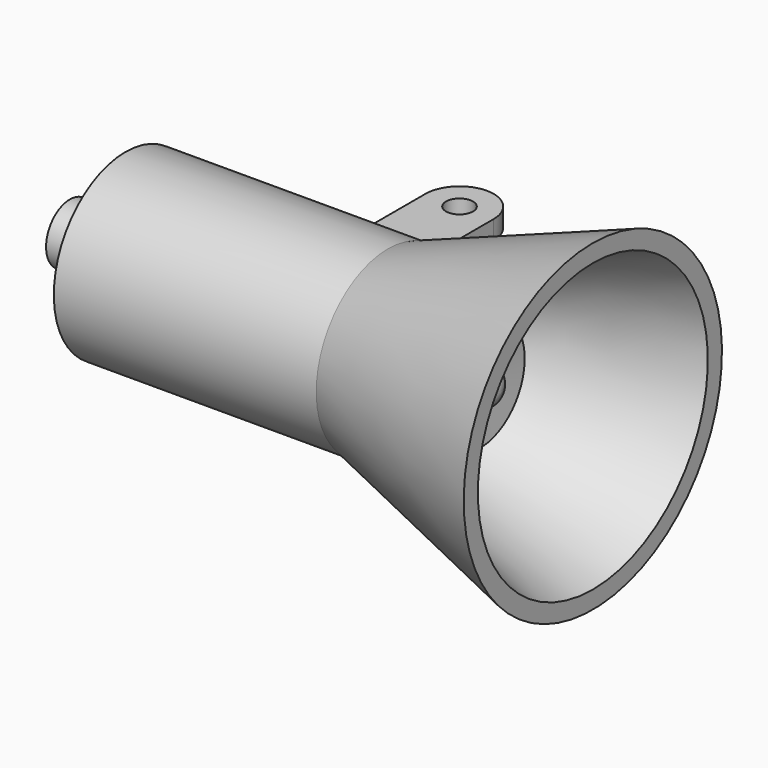
from build123d import *

# Parameters (mm, degrees)
F2_T     = -1.3462
F0_W     = 21.1836
F0_H     = 7.239
F4_R     = 2.4003
F5_DEPTH = 4.4958
F7_DEPTH = 2.794
F8_W     = 2.2705799568
F8_H     = 2.54
F8_W_2   = 2.7586200432
F9_DEPTH = 10.16


with BuildPart() as f1:
    # F0 (on Front) → F1 (revolve)
    with BuildSketch(Plane.XZ):
        Polygon((0, 7.239), (0, 0), (16.5415440198, 0), (16.5415440198, 13.0302), align=None)
    revolve(axis=Axis((-10.5918, 0, 0), (-1, 0, 0)))

    # F2
    f2_openings = [f1.faces().sort_by_distance(p)[0] for p in [
        (16.541544, 0, 0),
    ]]
    offset(amount=F2_T, openings=f2_openings)

    # F0 (on Front) → F3 (revolve)
    with BuildSketch(Plane.XZ):
        with Locations((-10.5918, 3.6195)):
            Rectangle(F0_W, F0_H)
    revolve(axis=Axis((-10.5918, 0, 0), (-1, 0, 0)))

    # F4 (on face) → F5 (join)
    with BuildSketch(Plane(origin=(-21.1836, 0, 0), x_dir=(0, -1, 0), z_dir=(-1, 0, 0))):
        Circle(F4_R)
    extrude(amount=F5_DEPTH)

    # F6 (on Top) → F7 (join, symmetric)
    with BuildSketch(Plane.XY):
        with BuildLine():
            Line((-8.1743659384, 13.9954), (-8.1743659384, 4.5510675645))
            Line((-8.1743659384, 4.5510675645), (-2.6625659384, 4.5510675645))
            Line((-2.6625659384, 4.5510675645), (-2.6625659384, 13.9954))
            ThreePointArc((-2.6625659384, 13.9954), (-5.4184659384, 11.2395), (-8.1743659384, 13.9954))
        make_face()
        with BuildLine():
            ThreePointArc((-2.6625659384, 13.9954), (-5.4184659384, 16.7513), (-8.1743659384, 13.9954))
            Line((-8.1743659384, 13.9954), (-6.5106659384, 13.9954))
            ThreePointArc((-6.5106659384, 13.9954), (-5.4184659384, 15.0876), (-4.3262659384, 13.9954))
            Line((-4.3262659384, 13.9954), (-2.6625659384, 13.9954))
        make_face()
        with BuildLine():
            Line((-6.5106659384, 13.9954), (-8.1743659384, 13.9954))
            ThreePointArc((-8.1743659384, 13.9954), (-5.4184659384, 11.2395), (-2.6625659384, 13.9954))
            Line((-2.6625659384, 13.9954), (-4.3262659384, 13.9954))
            ThreePointArc((-4.3262659384, 13.9954), (-5.4184659384, 12.9032), (-6.5106659384, 13.9954))
        make_face()
    extrude(amount=F7_DEPTH, both=True)

    # F8 (on face) → F9 (cut)
    with BuildSketch(Plane(origin=(-8.1743659384, 0, 0), x_dir=(0, -1, 0), z_dir=(-1, 0, 0))):
        with Locations((-12.8601100216, 0)):
            Rectangle(F8_W, F8_H)
        with Locations((-15.3747100216, 0)):
            Rectangle(F8_W_2, F8_H)
    extrude(amount=-F9_DEPTH, mode=Mode.SUBTRACT)

    # F10 (on Front) → F11 (revolve)
    with BuildSketch(Plane.XZ):
        with BuildLine():
            Line((7.4050883165, 4.5414811682), (0, 2.8554751822))
            Line((0, 2.8554751822), (0, 0))
            Line((0, 0), (8.9534996077, 0))
            ThreePointArc((8.9534996077, 0), (8.4175012065, 1.2725301509), (7.0793638567, 1.6131409325))
            Line((7.0793638567, 1.6131409325), (7.4050883165, 4.5414811682))
        make_face()
    revolve(axis=Axis((8.2707720099, 0, 0), (-1, 0, 0)))


solid = f1.part
